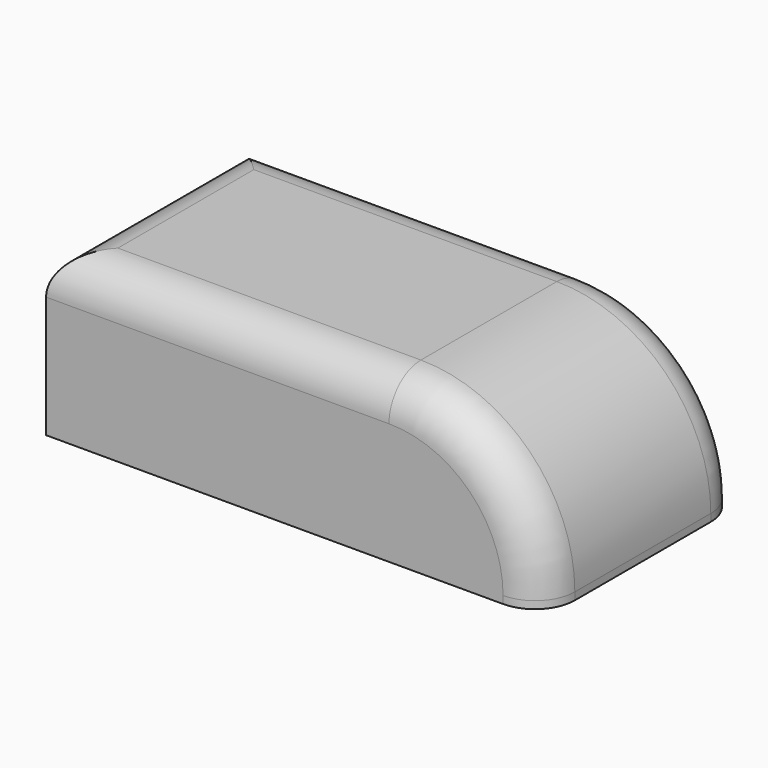
from build123d import *

# Parameters (mm, degrees)
F0_W     = 63.317589
F0_H     = 31.814769
F1_DEPTH = 20.574
F2_R     = 19.622728
F3_R     = 5.08
F4_T     = -2.54


with BuildPart() as f1:
    # F0 (on Top) → F1 (new body)
    with BuildSketch(Plane.XY):
        with Locations((-31.658794, -15.907384)):
            Rectangle(F0_W, F0_H)
    extrude(amount=F1_DEPTH)

    # F2
    f2_edges = [f1.edges().sort_by_distance(p)[0] for p in [
        (0, -15.907384, 20.574),
    ]]
    fillet(f2_edges, radius=F2_R)

    # F3
    f3_edges = [f1.edges().sort_by_distance(p)[0] for p in [
        (-41.470159, -31.814769, 20.574),
        (-41.470159, 0, 20.574),
        (-63.317589, -15.907384, 20.574),
    ]]
    fillet(f3_edges, radius=F3_R)

    # F4
    f4_openings = [f1.faces().sort_by_distance(p)[0] for p in [
        (-31.827557, -15.907384, 0),
    ]]
    offset(amount=F4_T, openings=f4_openings)


solid = f1.part
